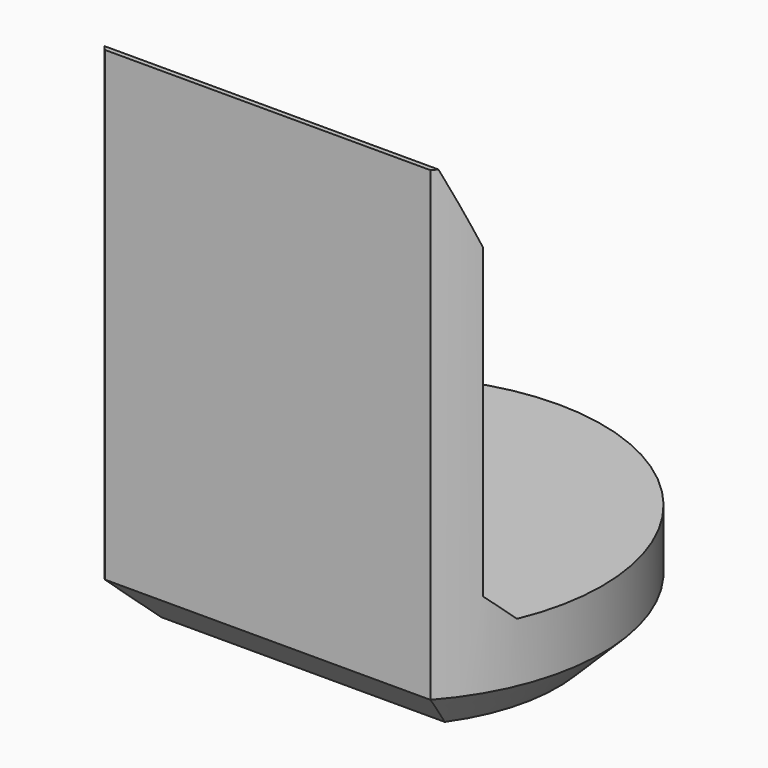
from build123d import *

# Parameters (mm, degrees)
PAD007_DEPTH         = 6.9
POCKET005_DEPTH      = 2.951
POCKET005_DEPTH_BACK = 2.951
CHAMFER008_SIZE      = 0.6


with BuildPart() as part:
    # Sketch018 → Pad007 (new body)
    with BuildSketch(Plane.XY):
        with BuildLine():
            ThreePointArc((2.2, -1.9653244007), (0, 2.95), (-2.2, -1.9653244007))
            Line((-2.2, -1.9653244007), (2.2, -1.9653244007))
        make_face()
    extrude(amount=PAD007_DEPTH)

    # Sketch019 → Pocket005 (cut, two sides)
    with BuildSketch(Plane.YZ) as pocket005_sk:
        Polygon((-1.9, 6.9), (-1.5, 5.9), (-1.5, 1.75), (-1.15, 1.4), (5, 1.4), (5, 6.9), align=None)
    extrude(amount=-POCKET005_DEPTH, mode=Mode.SUBTRACT)
    extrude(pocket005_sk.sketch, amount=POCKET005_DEPTH_BACK, mode=Mode.SUBTRACT)

    # Chamfer008
    chamfer008_edges = [part.edges().sort_by_distance(p)[0] for p in [
        (0, 2.95, 0),
        (0, -1.965324, 0),
    ]]
    chamfer(chamfer008_edges, length=CHAMFER008_SIZE)


with BuildPart() as part_1:
    # Body055 placement: moved
    add(part.part.moved(Location((0, 30, 0))))


solid = part_1.part
